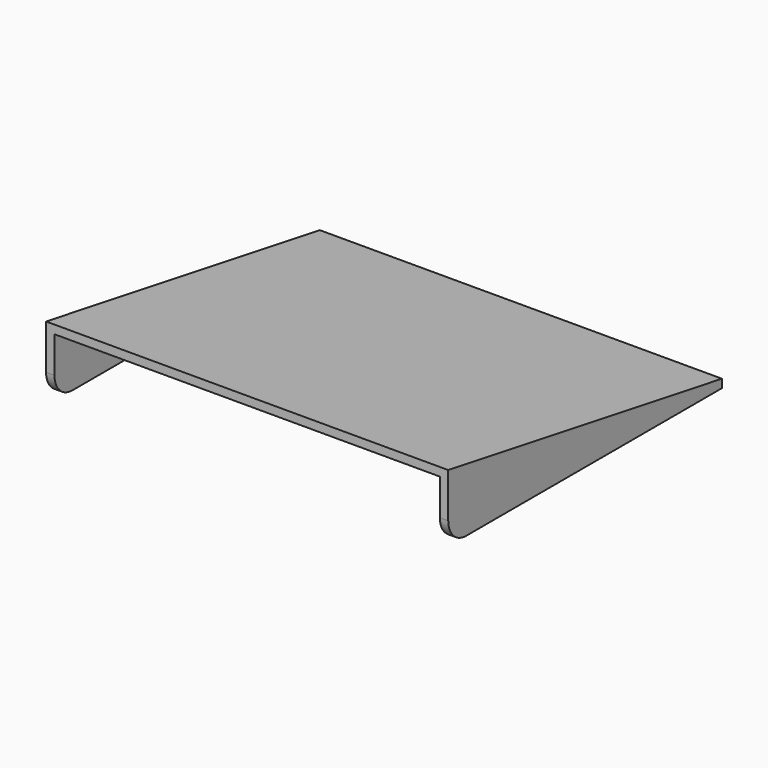
from build123d import *

# Parameters (mm, degrees)
F1_DEPTH = 914.4
F2_T     = -19.05


with BuildPart() as f1:
    # F0 (on Right) → F1 (new body)
    with BuildSketch(Plane.YZ):
        with BuildLine():
            Line((-889, 152.4), (-889, 50.8))
            ThreePointArc((-889, 50.8), (-874.121024, 14.878976), (-838.2, 0))
            Line((-838.2, 0), (-111.125, 0))
            Line((-111.125, 0), (-111.125, 19.05))
            Line((-111.125, 19.05), (-889, 152.4))
        make_face()
    extrude(amount=F1_DEPTH)

    # F2
    f2_openings = [f1.faces().sort_by_distance(p)[0] for p in [
        (457.2, -474.6625, 0),
        (457.2, -874.121024, 14.878976),
        (457.2, -889, 101.6),
    ]]
    offset(amount=F2_T, openings=f2_openings)


solid = f1.part
